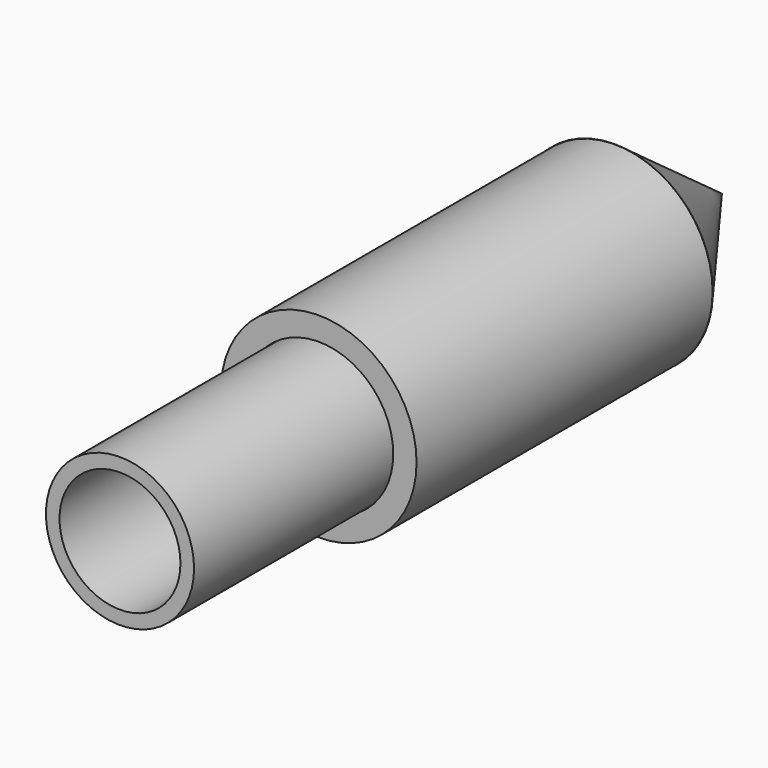
from build123d import *

# Parameters (mm, degrees)
F0_R     = 54.205812
F0_R_2   = 41.292584
F1_DEPTH = 205
F4_R     = 41.024739
F4_R_2   = 33.495835
F5_DEPTH = 342.6


with BuildPart() as f1:
    # F0 (on Front) → F1 (new body)
    with BuildSketch(Plane.XZ):
        Circle(F0_R)
        Circle(F0_R_2, mode=Mode.SUBTRACT)
    extrude(amount=F1_DEPTH)

    # F2 (on Right) → F3 (revolve)
    with BuildSketch(Plane.YZ):
        Polygon((0, 54.346781), (0, 0), (74.203447, 0), align=None)
    revolve(axis=Axis((0, 37.101723, 0), (0, 1, 0)))

    # F4 (on Front) → F5 (join)
    with BuildSketch(Plane.XZ):
        Circle(F4_R)
        Circle(F4_R_2, mode=Mode.SUBTRACT)
    extrude(amount=F5_DEPTH)


solid = f1.part
